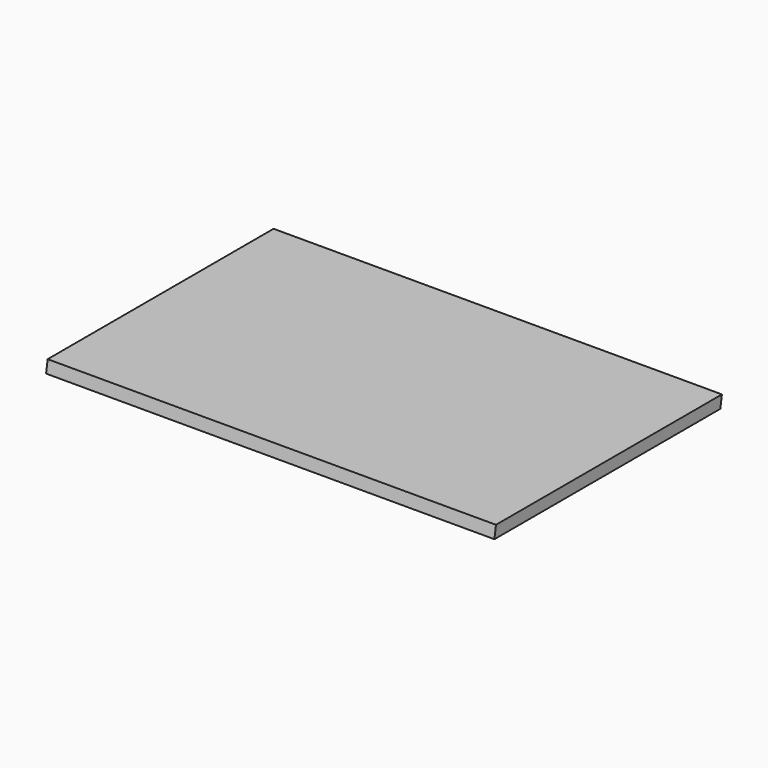
from build123d import *

# Parameters (mm, degrees)
F0_W     = 434.975
F0_H     = 18.25625
F1_DEPTH = 342.9
F3_DEPTH = 685.8


with BuildPart() as f1:
    # F0 (on Right) → F1 (new body, symmetric)
    with BuildSketch(Plane.YZ):
        Rectangle(F0_W, F0_H)
    extrude(amount=F1_DEPTH, both=True)

    # F2 (on face) → F3 (cut, through all)
    with BuildSketch(Plane.YZ.offset(342.9)):
        Polygon((217.4875, -9.128125), (217.4875, 9.128125), (214.497924, -9.128125), align=None)
        Polygon((-214.497924, 9.128125), (-217.4875, 9.128125), (-217.4875, -9.128125), align=None)
    extrude(amount=-F3_DEPTH, mode=Mode.SUBTRACT)


solid = f1.part
